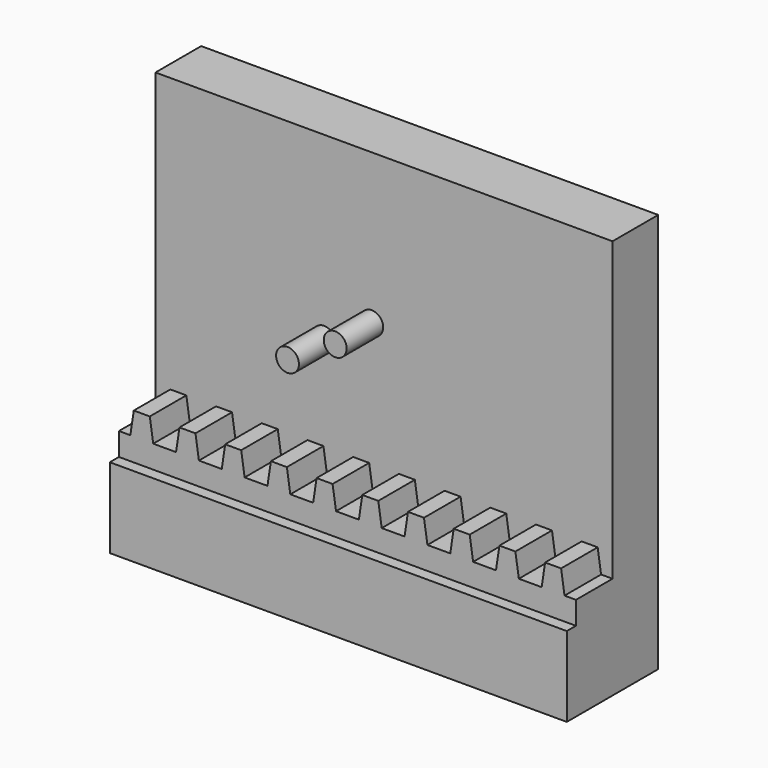
from build123d import *

# Parameters (mm, degrees)
F0_W     = 40
F0_H     = 35
F1_DEPTH = 10
F2_W     = 40
F2_H     = 30
F3_DEPTH = 5
F4_W     = 1
F4_H     = 2
F5_DEPTH = 40
F6_R     = 1
F7_DEPTH = 4
F9_DEPTH = 4


with BuildPart() as f1:
    # F0 (on Front) → F1 (new body)
    with BuildSketch(Plane.XZ):
        Rectangle(F0_W, F0_H)
    extrude(amount=F1_DEPTH)

    # F2 (on face) → F3 (cut)
    with BuildSketch(Plane.XZ.offset(10)):
        with Locations((0, 2.5)):
            Rectangle(F2_W, F2_H)
    extrude(amount=-F3_DEPTH, mode=Mode.SUBTRACT)

    # F4 (on face) → F5 (join, through all)
    with BuildSketch(Plane.YZ.offset(20)):
        with Locations((-9.5, -11.5)):
            Rectangle(F4_W, F4_H)
    extrude(amount=-F5_DEPTH)

    # F6 (on face) → F7 (join)
    with BuildSketch(Plane.XZ.offset(5)):
        with Locations((-1.07176, 4.339809)):
            Circle(F6_R)
        with Locations((-5.244032, 1.778612)):
            Circle(F6_R)
    extrude(amount=F7_DEPTH)

    # F8 (on face) → F9 (join)
    with BuildSketch(Plane.XZ.offset(5)):
        Polygon((-20, -12.5), (20, -12.5), (20, -8.5), (19, -8.5), (17, -8.5), (15, -8.5), (13, -8.5), (11, -8.5), (9, -8.5), (7, -8.5), (5, -8.5), (3, -8.5), (1, -8.5), (-1, -8.5), (-3, -8.5), (-5, -8.5), (-7, -8.5), (-9, -8.5), (-11, -8.5), (-13, -8.5), (-15, -8.5), (-17, -8.5), (-19, -8.5), (-20, -8.5), align=None)
        Polygon((17, -8.5), (19, -8.5), (18.7, -6.5), (18, -6.5), (17.3, -6.5), align=None)
        Polygon((-18.7, -6.5), (-19, -8.5), (-17, -8.5), (-17.3, -6.5), (-18, -6.5), align=None)
        Polygon((13, -8.5), (15, -8.5), (14.7, -6.5), (14, -6.5), (13.3, -6.5), align=None)
        Polygon((-14.7, -6.5), (-15, -8.5), (-13, -8.5), (-13.3, -6.5), (-14, -6.5), align=None)
        Polygon((9, -8.5), (11, -8.5), (10.7, -6.5), (10, -6.5), (9.3, -6.5), align=None)
        Polygon((-10.7, -6.5), (-11, -8.5), (-9, -8.5), (-9.3, -6.5), (-10, -6.5), align=None)
        Polygon((5, -8.5), (7, -8.5), (6.7, -6.5), (6, -6.5), (5.3, -6.5), align=None)
        Polygon((-6.7, -6.5), (-7, -8.5), (-5, -8.5), (-5.3, -6.5), (-6, -6.5), align=None)
        Polygon((1, -8.5), (3, -8.5), (2.7, -6.5), (2, -6.5), (1.3, -6.5), align=None)
        Polygon((-2.7, -6.5), (-3, -8.5), (-1, -8.5), (-1.3, -6.5), (-2, -6.5), align=None)
    extrude(amount=F9_DEPTH)


solid = f1.part
